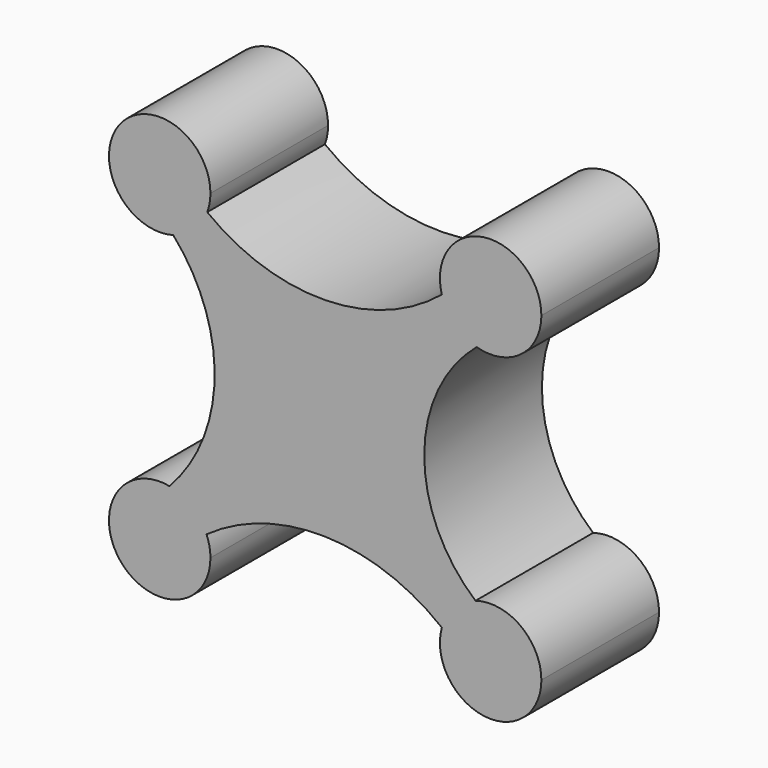
from build123d import *

# Parameters (mm, degrees)
F1_DEPTH = 25.4


with BuildPart() as f1:
    # F0 (on Front) → F1 (new body)
    with BuildSketch(Plane.XZ):
        with BuildLine():
            ThreePointArc((-18.735469, 22.730416), (-18.328265, 24.226462), (-18.1911, 25.770856))
            ThreePointArc((-18.1911, 25.770856), (-33.93, 31.074343), (-24.610585, 17.327035))
            ThreePointArc((-24.610585, 17.327035), (-21.02208, 19.320948), (-18.735469, 22.730416))
        make_face()
        with BuildLine():
            ThreePointArc((-18.735469, 22.730416), (-21.02208, 19.320948), (-24.610585, 17.327035))
            ThreePointArc((-24.610585, 17.327035), (-17.469276, -1.99445), (-25.278004, -21.055977))
            ThreePointArc((-25.278004, -21.055977), (-21.412607, -22.868816), (-18.862593, -26.293012))
            ThreePointArc((-18.862593, -26.293012), (1.619037, -19.980616), (21.777358, -27.259737))
            ThreePointArc((21.777358, -27.259737), (23.928897, -23.542629), (27.588285, -21.294319))
            ThreePointArc((27.588285, -21.294319), (18.742727, -1.927072), (27.78602, 17.348638))
            ThreePointArc((27.78602, 17.348638), (24.00136, 19.582777), (21.777358, 23.373403))
            ThreePointArc((21.777358, 23.373403), (1.633225, 15.977432), (-18.735469, 22.730416))
        make_face()
        with BuildLine():
            ThreePointArc((-18.862593, -26.293012), (-21.412607, -22.868816), (-25.278004, -21.055977))
            ThreePointArc((-25.278004, -21.055977), (-33.717153, -35.229558), (-18.1911, -29.657191))
            ThreePointArc((-18.1911, -29.657191), (-18.360613, -27.941921), (-18.862593, -26.293012))
        make_face()
        with BuildLine():
            ThreePointArc((38.969023, 25.770856), (28.995696, 34.44987), (21.777358, 23.373403))
            ThreePointArc((21.777358, 23.373403), (24.00136, 19.582777), (27.78602, 17.348638))
            ThreePointArc((27.78602, 17.348638), (35.47782, 18.770976), (38.969023, 25.770856))
        make_face()
        with BuildLine():
            ThreePointArc((27.588285, -21.294319), (23.928897, -23.542629), (21.777358, -27.259737))
            ThreePointArc((21.777358, -27.259737), (28.995696, -38.336204), (38.969023, -29.657191))
            ThreePointArc((38.969023, -29.657191), (35.394998, -22.595696), (27.588285, -21.294319))
        make_face()
    extrude(amount=F1_DEPTH)


solid = f1.part
